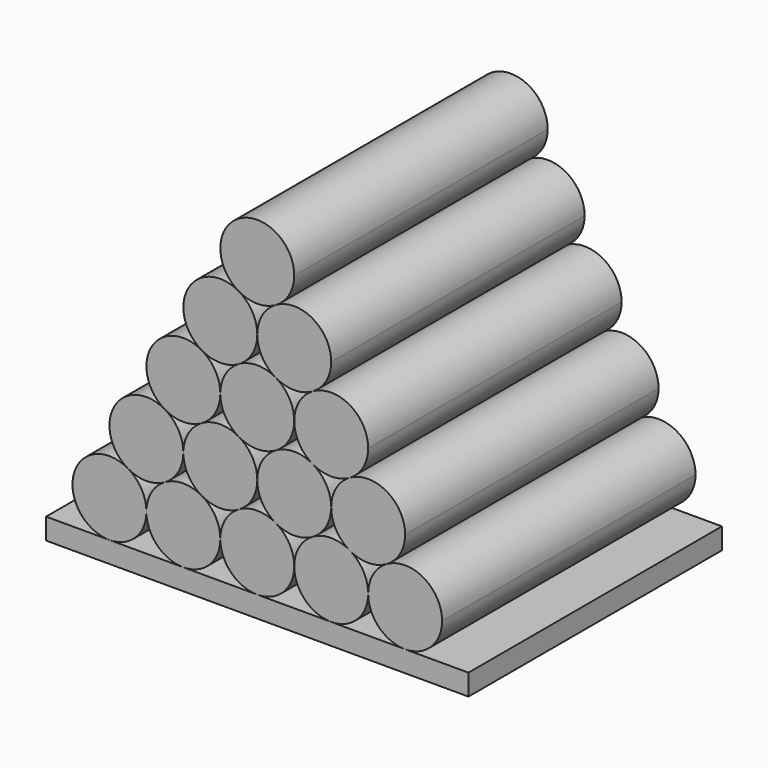
from build123d import *

# Parameters (mm, degrees)
F1_DEPTH = 76.2


with BuildPart() as f1:
    # F0 (on Front) → F1 (new body)
    with BuildSketch(Plane.XZ):
        with BuildLine():
            ThreePointArc((-13.3350000511, 23.0968975485), (-25.478965917, 19.8429315452), (-22.224999783, 7.6989657144))
            ThreePointArc((-22.224999783, 7.6989657144), (-17.7799997536, 6.5079316793), (-13.3349997903, 7.6989659607))
            ThreePointArc((-13.3349997903, 7.6989659607), (-10.0810340998, 10.9529317842), (-8.89, 15.3979316793))
            ThreePointArc((-8.89, 15.3979316793), (-10.0810341751, 19.8429317049), (-13.3350000511, 23.0968975485))
        make_face()
    extrude(amount=F1_DEPTH)


with BuildPart() as f1b:
    # F0 (on Front) → F1, piece 2 (new body)
    with BuildSketch(Plane.XZ):
        with BuildLine():
            ThreePointArc((-8.89, 15.3979316793), (-7.6989658311, 10.9529316645), (-4.4449999705, 7.6989658226))
            ThreePointArc((-4.4449999705, 7.6989658226), (6.75e-08, 6.5079316793), (4.4450000875, 7.6989658901))
            ThreePointArc((4.4450000875, 7.6989658901), (7.6989658649, 10.952931723), (8.89, 15.3979316793))
            ThreePointArc((8.89, 15.3979316793), (7.6989658283, 19.842931699), (4.4449999606, 23.0968975417))
            ThreePointArc((4.4449999606, 23.0968975417), (-1.166e-07, 24.2879316793), (-4.4450001625, 23.0968974251))
            ThreePointArc((-4.4450001625, 23.0968974251), (-7.6989658866, 19.842931598), (-8.89, 15.3979316793))
        make_face()
    extrude(amount=F1_DEPTH)


with BuildPart() as f1c:
    # F0 (on Front) → F1, piece 3 (new body)
    with BuildSketch(Plane.XZ):
        with BuildLine():
            ThreePointArc((8.89, 15.3979316793), (10.0810341482, 10.9529317004), (13.3349999579, 7.698965864))
            ThreePointArc((13.3349999579, 7.698965864), (17.780000023, 6.5079316793), (22.2250000819, 7.6989658869))
            ThreePointArc((22.2250000819, 7.6989658869), (25.4789658633, 10.9529317202), (26.67, 15.3979316793))
            ThreePointArc((26.67, 15.3979316793), (22.2250000328, 23.0968975), (13.3350000657, 23.0968975568))
            ThreePointArc((13.3350000657, 23.0968975568), (10.0810341793, 19.8429317121), (8.89, 15.3979316793))
        make_face()
    extrude(amount=F1_DEPTH)


with BuildPart() as f1d:
    # F0 (on Front) → F1, piece 4 (new body)
    with BuildSketch(Plane.XZ):
        with BuildLine():
            ThreePointArc((22.2250000819, 7.6989658869), (18.971034184, 4.445000041), (17.78, 0))
            ThreePointArc((17.78, 0), (18.9710341591, -4.4449999979), (22.2249999958, -7.6989658372))
            ThreePointArc((22.2249999958, -7.6989658372), (26.6699999325, -8.89), (31.1149998873, -7.6989659047))
            ThreePointArc((31.1149998873, -7.6989659047), (34.3689658071, -4.4450000564), (35.56, 0))
            ThreePointArc((35.56, 0), (31.115000041, 7.698965816), (22.2250000819, 7.6989658869))
        make_face()
    extrude(amount=F1_DEPTH)


with BuildPart() as f1e:
    # F0 (on Front) → F1, piece 5 (new body)
    with BuildSketch(Plane.XZ):
        with BuildLine():
            ThreePointArc((4.4450000875, 7.6989658901), (1.1910341856, 4.4450000437), (0, 0))
            ThreePointArc((0, 0), (1.1910341607, -4.4450000007), (4.4450000013, -7.6989658404))
            ThreePointArc((4.4450000013, -7.6989658404), (8.8899999644, -8.89), (13.3349999371, -7.698965876))
            ThreePointArc((13.3349999371, -7.698965876), (16.5889658215, -4.4450000314), (17.78, 0))
            ThreePointArc((17.78, 0), (16.5889658275, 4.4450000211), (13.3349999579, 7.698965864))
            ThreePointArc((13.3349999579, 7.698965864), (8.8900000262, 8.89), (4.4450000875, 7.6989658901))
        make_face()
    extrude(amount=F1_DEPTH)


with BuildPart() as f1f:
    # F0 (on Front) → F1, piece 6 (new body)
    with BuildSketch(Plane.XZ):
        with BuildLine():
            ThreePointArc((-13.3349997903, 7.6989659607), (-16.5889657791, 4.4450001049), (-17.78, 0))
            ThreePointArc((-17.78, 0), (-16.5889658625, -4.4449999603), (-13.3350000793, -7.6989657939))
            ThreePointArc((-13.3350000793, -7.6989657939), (-8.8900000289, -8.89), (-4.4449999708, -7.6989658228))
            ThreePointArc((-4.4449999708, -7.6989658228), (-1.1910341519, -4.4449999854), (0, 0))
            ThreePointArc((0, 0), (-1.1910341518, 4.4449999853), (-4.4449999705, 7.6989658226))
            ThreePointArc((-4.4449999705, 7.6989658226), (-8.8899998619, 8.89), (-13.3349997903, 7.6989659607))
        make_face()
    extrude(amount=F1_DEPTH)


with BuildPart() as f1g:
    # F0 (on Front) → F1, piece 7 (new body)
    with BuildSketch(Plane.XZ):
        with BuildLine():
            ThreePointArc((-22.2250001435, -7.6989659225), (-18.9710342018, -4.4450000718), (-17.78, 0))
            ThreePointArc((-17.78, 0), (-18.9710340977, 4.4449998915), (-22.224999783, 7.6989657144))
            ThreePointArc((-22.224999783, 7.6989657144), (-34.3689657758, 4.4450001106), (-31.1150000042, -7.6989658372))
            ThreePointArc((-31.1150000042, -7.6989658372), (-26.6700000853, -8.89), (-22.2250001435, -7.6989659225))
        make_face()
    extrude(amount=F1_DEPTH)


with BuildPart() as f1h:
    # F0 (on Front) → F1, piece 8 (new body)
    with BuildSketch(Plane.XZ):
        with BuildLine():
            ThreePointArc((-26.67, -15.3979316793), (-27.8610341616, -10.9529316772), (-31.1150000042, -7.6989658372))
            ThreePointArc((-31.1150000042, -7.6989658372), (-44.1470805963, -13.0970303707), (-35.56, -24.2879316793))
            ThreePointArc((-35.56, -24.2879316793), (-29.2738207153, -21.684110964), (-26.67, -15.3979316793))
        make_face()
    extrude(amount=F1_DEPTH)


with BuildPart() as f1i:
    # F0 (on Front) → F1, piece 9 (new body)
    with BuildSketch(Plane.XZ):
        with BuildLine():
            ThreePointArc((-13.3350000793, -7.6989657939), (-17.7800001286, -6.5079316793), (-22.2250001435, -7.6989659225))
            ThreePointArc((-22.2250001435, -7.6989659225), (-25.4789658811, -10.952931751), (-26.67, -15.3979316793))
            ThreePointArc((-26.67, -15.3979316793), (-24.0661792991, -21.6841109496), (-17.7800000407, -24.2879316793))
            ThreePointArc((-17.7800000407, -24.2879316793), (-11.4938207296, -21.6841109784), (-8.89, -15.3979316793))
            ThreePointArc((-8.89, -15.3979316793), (-10.0810341832, -10.9529316396), (-13.3350000793, -7.6989657939))
        make_face()
    extrude(amount=F1_DEPTH)


with BuildPart() as f1j:
    # F0 (on Front) → F1, piece 10 (new body)
    with BuildSketch(Plane.XZ):
        with BuildLine():
            ThreePointArc((4.4450000013, -7.6989658404), (1.76e-08, -6.5079316793), (-4.4449999708, -7.6989658228))
            ThreePointArc((-4.4449999708, -7.6989658228), (-7.6989658312, -10.9529316647), (-8.89, -15.3979316793))
            ThreePointArc((-8.89, -15.3979316793), (-6.2861793033, -21.6841109454), (-5.26e-08, -24.2879316793))
            ThreePointArc((-5.26e-08, -24.2879316793), (6.2861792662, -21.6841109826), (8.89, -15.3979316793))
            ThreePointArc((8.89, -15.3979316793), (7.69896584, -10.9529316799), (4.4450000013, -7.6989658404))
        make_face()
    extrude(amount=F1_DEPTH)


with BuildPart() as f1k:
    # F0 (on Front) → F1, piece 11 (new body)
    with BuildSketch(Plane.XZ):
        with BuildLine():
            ThreePointArc((22.2249999958, -7.6989658372), (17.7799999612, -6.5079316793), (13.3349999371, -7.698965876))
            ThreePointArc((13.3349999371, -7.698965876), (10.0810341422, -10.9529317107), (8.89, -15.3979316793))
            ThreePointArc((8.89, -15.3979316793), (11.4938207085, -21.6841109572), (17.7799999808, -24.2879316793))
            ThreePointArc((17.7799999808, -24.2879316793), (24.066179278, -21.6841109708), (26.67, -15.3979316793))
            ThreePointArc((26.67, -15.3979316793), (25.4789658384, -10.9529316772), (22.2249999958, -7.6989658372))
        make_face()
    extrude(amount=F1_DEPTH)


with BuildPart() as f1l:
    # F0 (on Front) → F1, piece 12 (new body)
    with BuildSketch(Plane.XZ):
        with BuildLine():
            ThreePointArc((31.1149998873, -7.6989659047), (27.8610341278, -10.9529317356), (26.67, -15.3979316793))
            ThreePointArc((26.67, -15.3979316793), (29.2738207153, -21.684110964), (35.56, -24.2879316793))
            ThreePointArc((35.56, -24.2879316793), (41.8461792847, -21.684110964), (44.45, -15.3979316793))
            ThreePointArc((44.45, -15.3979316793), (40.0049999436, -7.6989658071), (31.1149998873, -7.6989659047))
        make_face()
    extrude(amount=F1_DEPTH)


with BuildPart() as f1m:
    # F0 (on Front) → F1, piece 13 (new body)
    with BuildSketch(Plane.XZ):
        Polygon((-17.7800000407, -24.2879316793), (-35.56, -24.2879316793), (-50.8, -24.2879316793), (-50.8, -29.3679316793), (50.8, -29.3679316793), (50.8, -24.2879316793), (35.56, -24.2879316793), (17.7799999808, -24.2879316793), (-5.26e-08, -24.2879316793), align=None)
    extrude(amount=F1_DEPTH)


with BuildPart() as f1n:
    # F0 (on Front) → F1, piece 14 (new body)
    with BuildSketch(Plane.XZ):
        with BuildLine():
            ThreePointArc((-4.4449998636, 38.4948291195), (-16.5889657855, 35.2408634523), (-13.3350000511, 23.0968975485))
            ThreePointArc((-13.3350000511, 23.0968975485), (-8.8900001234, 21.9058633586), (-4.4450001625, 23.0968974251))
            ThreePointArc((-4.4450001625, 23.0968974251), (-1.1910342073, 26.3508632773), (0, 30.7958633586))
            ThreePointArc((0, 30.7958633586), (-1.191034121, 35.2408632904), (-4.4449998636, 38.4948291195))
        make_face()
    extrude(amount=F1_DEPTH)


with BuildPart() as f1o:
    # F0 (on Front) → F1, piece 15 (new body)
    with BuildSketch(Plane.XZ):
        with BuildLine():
            ThreePointArc((4.4449997876, 38.4948290756), (1.191034099, 35.2408632524), (0, 30.7958633586))
            ThreePointArc((0, 30.7958633586), (1.191034149, 26.3508633783), (4.4449999606, 23.0968975417))
            ThreePointArc((4.4449999606, 23.0968975417), (8.8900000152, 21.9058633586), (13.3350000657, 23.0968975568))
            ThreePointArc((13.3350000657, 23.0968975568), (16.5889658586, 26.3508633914), (17.78, 30.7958633586))
            ThreePointArc((17.78, 30.7958633586), (13.3349998938, 38.4948292595), (4.4449997876, 38.4948290756))
        make_face()
    extrude(amount=F1_DEPTH)


with BuildPart() as f1p:
    # F0 (on Front) → F1, piece 16 (new body)
    with BuildSketch(Plane.XZ):
        with BuildLine():
            ThreePointArc((8.89, 46.1937950379), (-4.4450000682, 53.8927608381), (-4.4449998636, 38.4948291195))
            ThreePointArc((-4.4449998636, 38.4948291195), (-4.39e-08, 37.3037950379), (4.4449997876, 38.4948290756))
            ThreePointArc((4.4449997876, 38.4948290756), (7.6989657783, 41.7487949317), (8.89, 46.1937950379))
        make_face()
    extrude(amount=F1_DEPTH)


solid = Compound([f1.part, f1b.part, f1c.part, f1d.part, f1e.part, f1f.part, f1g.part, f1h.part, f1i.part, f1j.part, f1k.part, f1l.part, f1m.part, f1n.part, f1o.part, f1p.part])
